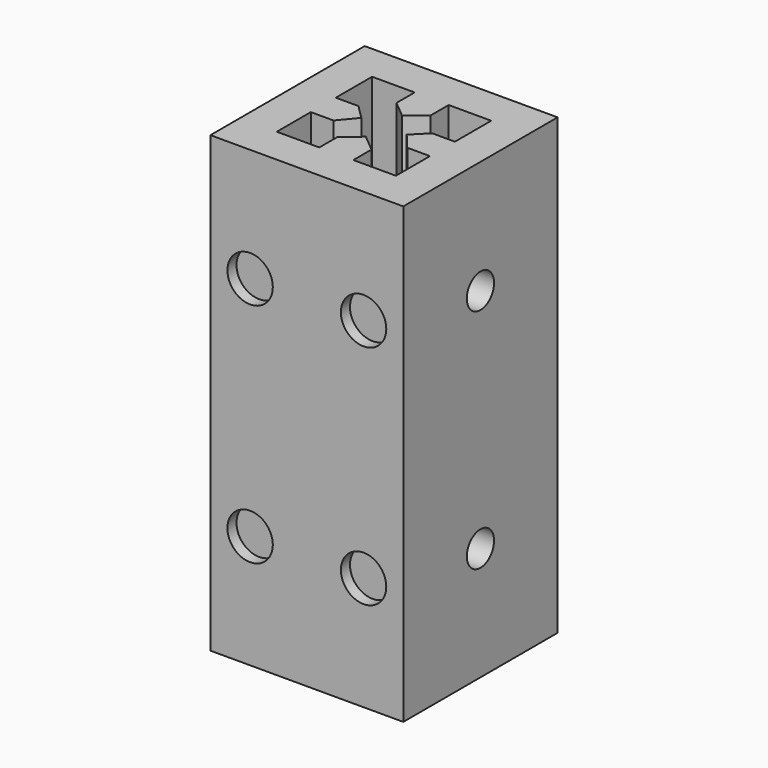
from build123d import *

# Parameters (mm, degrees)
SKETCH_W        = 34
SKETCH_H        = 34
PAD_DEPTH       = 80
POCKET_DEPTH    = 80
SKETCH002_R     = 3
POCKET001_DEPTH = 4
SKETCH003_R     = 3
POCKET002_DEPTH = 4
SKETCH004_R     = 4
POCKET003_DEPTH = 2
SKETCH005_R     = 4
POCKET004_DEPTH = 2


with BuildPart() as part:
    # Sketch → Pad (new body)
    with BuildSketch(Plane.XY):
        with Locations((17, 17)):
            Rectangle(SKETCH_W, SKETCH_H)
    extrude(amount=PAD_DEPTH)

    # Sketch001 (on Face6 of Pad) → Pocket (cut)
    with BuildSketch(Plane.XY.offset(80)):
        Polygon((6.5, 27.5), (14, 27.5), (14, 23.5), (17, 21), (20, 23.5), (20, 27.5), (27.5, 27.5), (27.5, 19.5), (23.5, 19.5), (21, 17), (23.5, 14), (27.5, 14), (27.5, 6.5), (20, 6.5), (20, 10.5), (17, 13), (14, 10.5), (14, 6.5), (6.5, 6.5), (6.5, 14), (10.5, 14), (13, 17), (10.5, 19.5), (6.5, 19.5), align=None)
    extrude(amount=-POCKET_DEPTH, mode=Mode.SUBTRACT)

    # Sketch002 (on Face2 of Pocket) → Pocket001 (cut)
    with BuildSketch(Plane(origin=(0, 0, 0), x_dir=(0, -1, 0), z_dir=(-1, 0, 0))):
        with Locations((-17, 60)):
            Circle(SKETCH002_R)
        with Locations((-17, 20)):
            Circle(SKETCH002_R)
    extrude(amount=-POCKET001_DEPTH, mode=Mode.SUBTRACT)

    # Sketch003 (on Face3 of Pocket001) → Pocket002 (cut)
    with BuildSketch(Plane.YZ.offset(34)):
        with Locations((17, 60)):
            Circle(SKETCH003_R)
        with Locations((17, 20)):
            Circle(SKETCH003_R)
    extrude(amount=-POCKET002_DEPTH, mode=Mode.SUBTRACT)

    # Sketch004 (on Face1 of Pocket002) → Pocket003 (cut)
    with BuildSketch(Plane(origin=(0, 34, 0), x_dir=(-1, 0, 0), z_dir=(0, 1, 0))):
        with Locations((-27, 60)):
            Circle(SKETCH004_R)
        with Locations((-7, 60)):
            Circle(SKETCH004_R)
        with Locations((-27, 20)):
            Circle(SKETCH004_R)
        with Locations((-7, 20)):
            Circle(SKETCH004_R)
    extrude(amount=-POCKET003_DEPTH, mode=Mode.SUBTRACT)

    # Sketch005 (on Face10 of Pocket003) → Pocket004 (cut)
    with BuildSketch(Plane.XZ):
        with Locations((7, 60)):
            Circle(SKETCH005_R)
        with Locations((27, 60)):
            Circle(SKETCH005_R)
        with Locations((7, 20)):
            Circle(SKETCH005_R)
        with Locations((27, 20)):
            Circle(SKETCH005_R)
    extrude(amount=-POCKET004_DEPTH, mode=Mode.SUBTRACT)


solid = part.part
